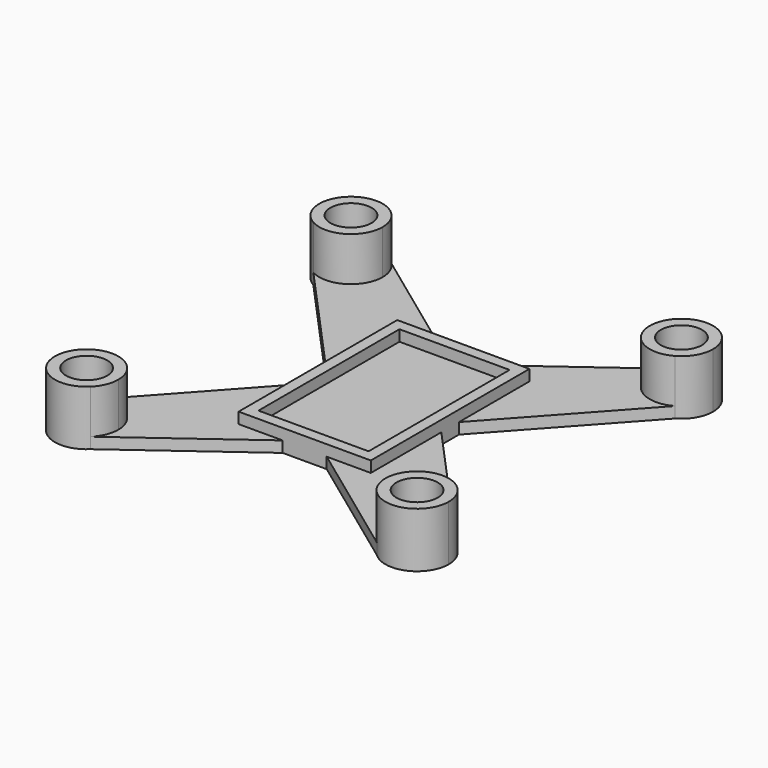
from build123d import *

# Parameters (mm, degrees)
F0_W     = 20
F0_H     = 32
F1_DEPTH = 2
F2_DEPTH = 4
F0_R     = 3.75
F3_DEPTH = 10


with BuildPart() as f1:
    # F0 (on Top) → F1 (new body)
    with BuildSketch(Plane.XY):
        with BuildLine():
            Line((-12, 2), (-12, 18))
            Line((-12, 18), (-4, 18))
            Line((-4, 18), (-26, 34.130678))
            ThreePointArc((-26, 34.130678), (-24.705545, 32.243045), (-24.25, 30))
            ThreePointArc((-24.25, 30), (-27.107282, 25.030626), (-32.839454, 25))
            Line((-32.839454, 25), (-12, 2))
        make_face()
        with BuildLine():
            Line((26, 34.130678), (4, 18))
            Line((4, 18), (12, 18))
            Line((12, 18), (12, 2))
            Line((12, 2), (32.839454, 25))
            ThreePointArc((32.839454, 25), (25.397931, 26.55276), (26, 34.130678))
        make_face()
        with BuildLine():
            Line((32.839454, -25), (12, -2))
            Line((12, -2), (12, -18))
            Line((12, -18), (4, -18))
            Line((4, -18), (26, -34.130678))
            ThreePointArc((26, -34.130678), (25.397931, -26.55276), (32.839454, -25))
        make_face()
        with BuildLine():
            Line((-12, -18), (-12, -2))
            Line((-12, -2), (-32.839454, -25))
            ThreePointArc((-32.839454, -25), (-27.107282, -25.030626), (-24.25, -30))
            ThreePointArc((-24.25, -30), (-24.705545, -32.243045), (-26, -34.130678))
            Line((-26, -34.130678), (-4, -18))
            Line((-4, -18), (-12, -18))
        make_face()
        Polygon((-4, 18), (-12, 18), (-12, 2), (-12, -2), (-12, -18), (-4, -18), (4, -18), (12, -18), (12, -2), (12, 2), (12, 18), (4, 18), align=None)
        Rectangle(F0_W, F0_H, mode=Mode.SUBTRACT)
        Rectangle(F0_W, F0_H)
    extrude(amount=F1_DEPTH)

    # F0 (on Top) → F2 (join)
    with BuildSketch(Plane.XY):
        Polygon((-4, 18), (-12, 18), (-12, 2), (-12, -2), (-12, -18), (-4, -18), (4, -18), (12, -18), (12, -2), (12, 2), (12, 18), (4, 18), align=None)
        Rectangle(F0_W, F0_H, mode=Mode.SUBTRACT)
    extrude(amount=F2_DEPTH)

    # F0 (on Top) → F3 (join)
    with BuildSketch(Plane.XY):
        with BuildLine():
            ThreePointArc((-24.25, -30), (-27.107282, -25.030626), (-32.839454, -25))
            ThreePointArc((-32.839454, -25), (-34.602069, -33.44724), (-26, -34.130678))
            ThreePointArc((-26, -34.130678), (-24.705545, -32.243045), (-24.25, -30))
        make_face()
        with Locations((-30, -30)):
            Circle(F0_R, mode=Mode.SUBTRACT)
        with BuildLine():
            ThreePointArc((35.75, -30), (34.969374, -27.107282), (32.839454, -25))
            ThreePointArc((32.839454, -25), (25.397931, -26.55276), (26, -34.130678))
            ThreePointArc((26, -34.130678), (32.243045, -35.294455), (35.75, -30))
        make_face()
        with Locations((30, -30)):
            Circle(F0_R, mode=Mode.SUBTRACT)
        with BuildLine():
            ThreePointArc((35.75, 30), (32.243045, 35.294455), (26, 34.130678))
            ThreePointArc((26, 34.130678), (25.397931, 26.55276), (32.839454, 25))
            ThreePointArc((32.839454, 25), (34.969374, 27.107282), (35.75, 30))
        make_face()
        with Locations((30, 30)):
            Circle(F0_R, mode=Mode.SUBTRACT)
        with BuildLine():
            ThreePointArc((-24.25, 30), (-24.705545, 32.243045), (-26, 34.130678))
            ThreePointArc((-26, 34.130678), (-34.602069, 33.44724), (-32.839454, 25))
            ThreePointArc((-32.839454, 25), (-27.107282, 25.030626), (-24.25, 30))
        make_face()
        with Locations((-30, 30)):
            Circle(F0_R, mode=Mode.SUBTRACT)
    extrude(amount=F3_DEPTH)


solid = f1.part
